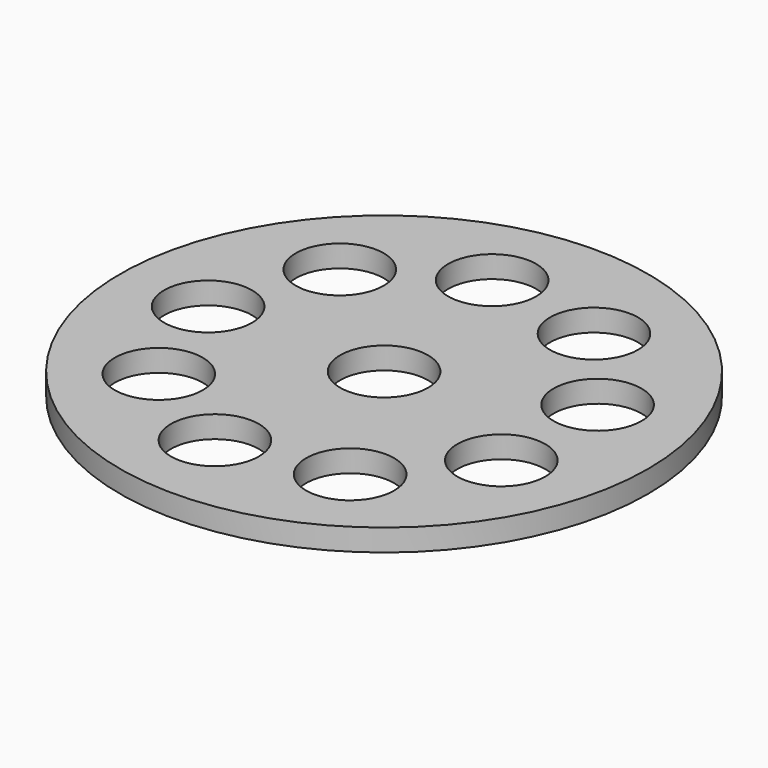
from build123d import *

# Parameters (mm, degrees)
F0_R     = 76.2
F0_R_2   = 12.7
F1_DEPTH = 6.35


with BuildPart() as f1:
    # F0 (on Top) → F1 (new body)
    with BuildSketch(Plane.XY):
        Circle(F0_R)
        with Locations((-8.821327, -50.028234)):
            Circle(F0_R_2, mode=Mode.SUBTRACT)
        with Locations((-38.915058, -32.653611)):
            Circle(F0_R_2, mode=Mode.SUBTRACT)
        with Locations((25.4, -43.994091)):
            Circle(F0_R_2, mode=Mode.SUBTRACT)
        with Locations((47.736385, -17.374623)):
            Circle(F0_R_2, mode=Mode.SUBTRACT)
        with Locations((-50.8, 0)):
            Circle(F0_R_2, mode=Mode.SUBTRACT)
        with Locations((-38.915058, 32.653611)):
            Circle(F0_R_2, mode=Mode.SUBTRACT)
        with Locations((-8.821327, 50.028234)):
            Circle(F0_R_2, mode=Mode.SUBTRACT)
        Circle(F0_R_2, mode=Mode.SUBTRACT)
        with Locations((47.736385, 17.374623)):
            Circle(F0_R_2, mode=Mode.SUBTRACT)
        with Locations((25.4, 43.994091)):
            Circle(F0_R_2, mode=Mode.SUBTRACT)
    extrude(amount=F1_DEPTH)


solid = f1.part
